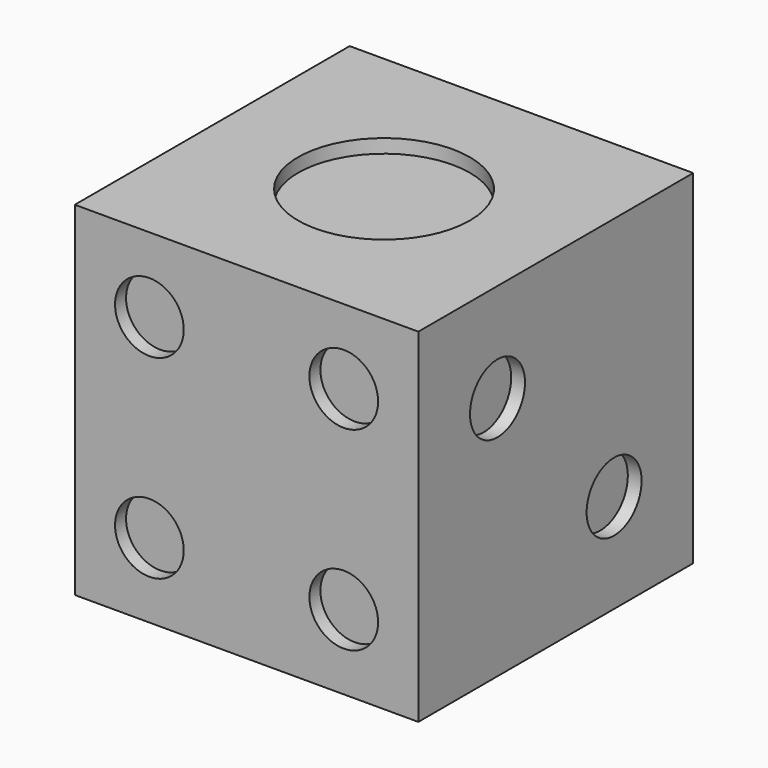
from build123d import *

# Parameters (mm, degrees)
F0_W      = 50
F0_H      = 50
F1_DEPTH  = 50
F2_R      = 12.5
F3_DEPTH  = 2
F4_R      = 5
F5_DEPTH  = 2
F6_R      = 5
F7_DEPTH  = 2
F8_R      = 5
F9_DEPTH  = 2
F10_R     = 5
F11_DEPTH = 2
F12_R     = 5
F13_DEPTH = 2


with BuildPart() as f1:
    # F0 (on Top) → F1 (new body)
    with BuildSketch(Plane.XY):
        Rectangle(F0_W, F0_H)
    extrude(amount=F1_DEPTH)

    # F2 (on face) → F3 (cut)
    with BuildSketch(Plane.XY.offset(50)):
        Circle(F2_R)
    extrude(amount=-F3_DEPTH, mode=Mode.SUBTRACT)

    # F4 (on face) → F5 (cut)
    with BuildSketch(Plane.YZ.offset(25)):
        with Locations((-10.606602, 35.606602)):
            Circle(F4_R)
        with Locations((10.606602, 14.393398)):
            Circle(F4_R)
    extrude(amount=-F5_DEPTH, mode=Mode.SUBTRACT)

    # F6 (on face) → F7 (cut)
    with BuildSketch(Plane(origin=(0, 25, 0), x_dir=(-1, 0, 0), z_dir=(0, 1, 0))):
        with Locations((0, 25)):
            Circle(F6_R)
        with Locations((-14.142136, 39.142136)):
            Circle(F6_R)
        with Locations((14.142136, 10.857864)):
            Circle(F6_R)
    extrude(amount=-F7_DEPTH, mode=Mode.SUBTRACT)

    # F8 (on face) → F9 (cut)
    with BuildSketch(Plane.XZ.offset(25)):
        with Locations((14.142136, 39.142136)):
            Circle(F8_R)
        with Locations((-14.142136, 39.142136)):
            Circle(F8_R)
        with Locations((-14.142136, 10.857864)):
            Circle(F8_R)
        with Locations((14.142136, 10.857864)):
            Circle(F8_R)
    extrude(amount=-F9_DEPTH, mode=Mode.SUBTRACT)

    # F10 (on face) → F11 (cut)
    with BuildSketch(Plane(origin=(-25, 0, 0), x_dir=(0, -1, 0), z_dir=(-1, 0, 0))):
        with Locations((-17.67767, 42.67767)):
            Circle(F10_R)
        with Locations((0, 25)):
            Circle(F10_R)
        with Locations((-17.67767, 7.32233)):
            Circle(F10_R)
        with Locations((17.67767, 7.32233)):
            Circle(F10_R)
        with Locations((17.67767, 42.67767)):
            Circle(F10_R)
    extrude(amount=-F11_DEPTH, mode=Mode.SUBTRACT)

    # F12 (on face) → F13 (cut)
    with BuildSketch(Plane(origin=(0, 0, 0), x_dir=(1, 0, 0), z_dir=(0, 0, -1))):
        with Locations((-12.5, 15)):
            Circle(F12_R)
        with Locations((-12.5, 0)):
            Circle(F12_R)
        with Locations((-12.5, -15)):
            Circle(F12_R)
        with Locations((12.5, -15)):
            Circle(F12_R)
        with Locations((12.5, 0)):
            Circle(F12_R)
        with Locations((12.5, 15)):
            Circle(F12_R)
    extrude(amount=-F13_DEPTH, mode=Mode.SUBTRACT)


solid = f1.part
